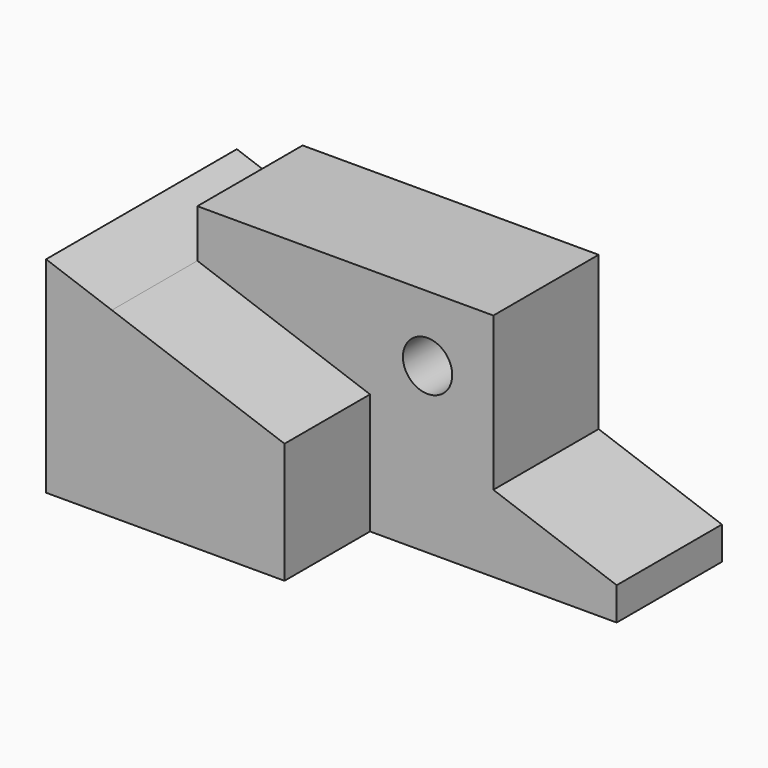
from build123d import *

# Parameters (mm, degrees)
F1_DEPTH = 58
F0_R     = 6
F2_DEPTH = 32


with BuildPart() as f1:
    # F0 (on Front) → F1 (new body)
    with BuildSketch(Plane.XZ):
        Polygon((-51.664996, 0), (6.335004, 0), (6.335004, 29.355932), (-35.664996, 44.305085), (-51.664996, 50), align=None)
    extrude(amount=F1_DEPTH)


with BuildPart() as f2:
    # F0 (on Front) → F2 (new body)
    with BuildSketch(Plane.XZ):
        Polygon((6.335004, 0), (66.335004, 0), (66.335004, 8), (36.335004, 18.677966), (36.335004, 56), (-35.664996, 56), (-35.664996, 44.305085), (6.335004, 29.355932), align=None)
        with Locations((20.335004, 40)):
            Circle(F0_R, mode=Mode.SUBTRACT)
    extrude(amount=F2_DEPTH)


solid = Compound([f1.part, f2.part])
